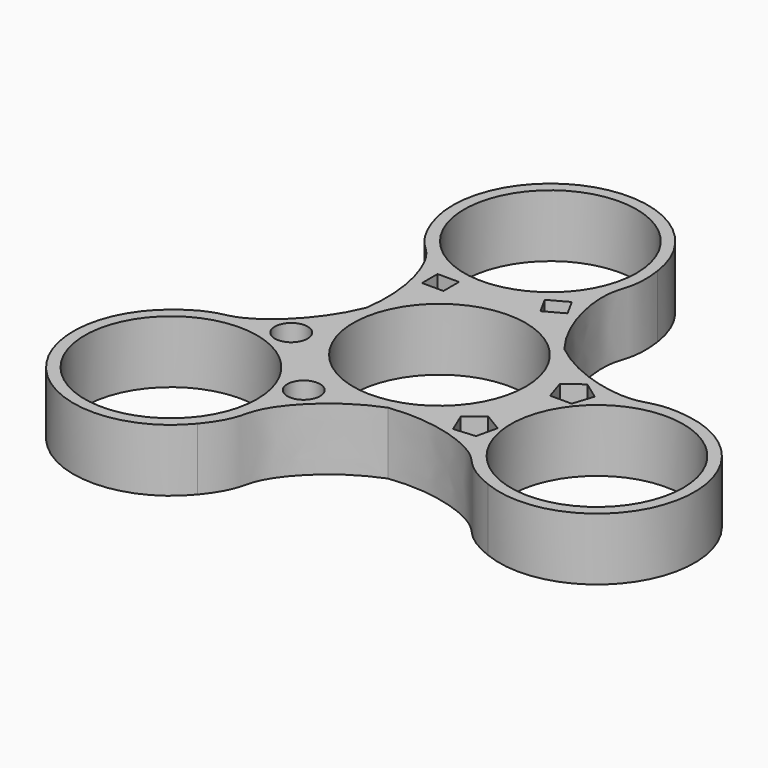
from build123d import *

# Parameters (mm, degrees)
F0_R     = 11.05
F1_DEPTH = 8
F2_COUNT = 3
F3_R     = 2.0984352338
F4_DEPTH = 14.1
F6_DEPTH = 15.9
F7_W     = 2.7527753264
F7_H     = 2.4985410273
F8_DEPTH = 25


with BuildPart() as f1:
    # F0 (on Top) → F1 (new body)
    with BuildSketch(Plane.XY):
        with BuildLine():
            add(Edge.make_bspline(
                [(3.9529151252, -11.8585185421), (-1.5237030188, -13.6840928429), (-8.1929499985, -20.8850864829), (-6.9370814599, -23.4988220036), (-9.6003512524, -26.772688614)],
                knots=[0, 0, 0, 0, 0.584313287, 1, 1, 1, 1], degree=3))
            ThreePointArc((3.9529151252, -11.8585185421), (8.9338235342, 8.7428140241), (-11.7703310249, 4.208242812))
            add(Edge.make_bspline(
                [(-11.7703310249, 4.208242812), (-13.7138232796, -1.2276477019), (-21.0572512178, -7.739731147), (-23.6432383667, -6.4276756511), (-26.9738911144, -9.0195785899)],
                knots=[0, 0, 0, 0, 0.584313287, 1, 1, 1, 1], degree=3))
            ThreePointArc((-26.9738911144, -9.0195785899), (-28.2308823679, -27.6272923163), (-9.6003512524, -26.772688614))
        make_face()
        with Locations((-19.2970588338, -18.8844782921)):
            Circle(F0_R, mode=Mode.SUBTRACT)
        Circle(F0_R, mode=Mode.SUBTRACT)
    extrude(amount=F1_DEPTH)

    # F2: F1 ×3 about axis
    f2_axis = Axis((0, 0, 0), (0, 0, 1))


with BuildPart() as f1_1:
    add(f1.part)
    for i in range(1, F2_COUNT):
        add(f1.part.rotate(f2_axis, i * 360 / F2_COUNT))

    # F3 (on face) → F4 (cut)
    with BuildSketch(Plane.XY.offset(8)):
        with Locations((-5.823141416, -14.4594646389)):
            Circle(F3_R)
        with Locations((-14.5819205791, -5.5093271658)):
            Circle(F3_R)
    extrude(amount=-F4_DEPTH, mode=Mode.SUBTRACT)

    # F5 (on face) → F6 (cut)
    with BuildSketch(Plane.XY.offset(8)):
        Polygon((10.0365653387, -9.1574461857), (11.1043861221, -11.7024399717), (13.8547938152, -11.473328388), (14.4868184692, -8.7867358559), (12.1270234939, -7.355441941), align=None)
        Polygon((14.1833432225, 0), (16.9432770254, 0), (17.7961434739, 2.6248530278), (15.563310124, 4.2471014144), (13.3304767741, 2.6248530278), align=None)
    extrude(amount=-F6_DEPTH, mode=Mode.SUBTRACT)

    # F7 (on face) → F8 (cut)
    with BuildSketch(Plane(origin=(0, 0, 0), x_dir=(1, 0, 0), z_dir=(0, 0, -1))):
        with Locations((-9.7057856619, -12.302370742)):
            Rectangle(F7_W, F7_H)
        Polygon((4.3965273471, -15.0218553299), (1.9833682875, -13.6973043302), (0.7811470297, -15.887594565), (3.1943060893, -17.2121455646), align=None)
    extrude(amount=-F8_DEPTH, mode=Mode.SUBTRACT)


solid = f1_1.part
